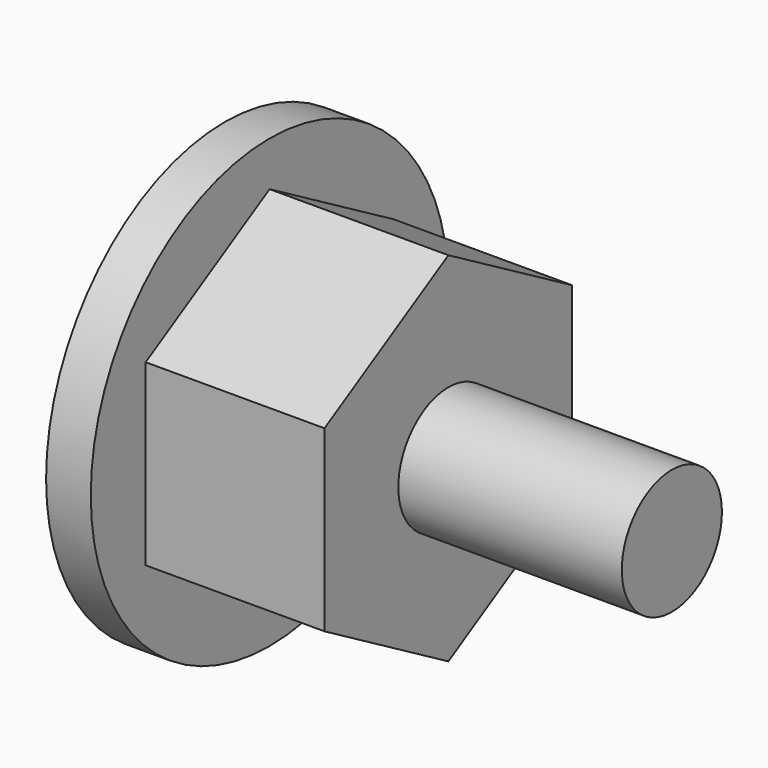
from build123d import *

# Parameters (mm, degrees)
F0_R     = 7
F1_DEPTH = 50
F2_DEPTH = 25
F0_R_2   = 25
F3_DEPTH = 5


with BuildPart() as f1:
    # F0 (on Right) → F1 (new body)
    with BuildSketch(Plane.YZ):
        with Locations((246.234893, -520.379218)):
            Circle(F0_R)
    extrude(amount=F1_DEPTH)

    # F0 (on Right) → F2 (join)
    with BuildSketch(Plane.YZ):
        Polygon((246.234893, -500.379218), (228.914385, -510.379218), (228.914385, -530.379218), (246.234893, -540.379218), (263.555401, -530.379218), (263.555401, -510.379218), align=None)
        with Locations((246.234893, -520.379218)):
            Circle(F0_R, mode=Mode.SUBTRACT)
    extrude(amount=F2_DEPTH)


with BuildPart() as f3:
    # F0 (on Right) → F3 (new body)
    with BuildSketch(Plane.YZ):
        with Locations((246.234893, -520.379218)):
            Circle(F0_R_2)
        Polygon((228.914385, -530.379218), (228.914385, -510.379218), (246.234893, -500.379218), (263.555401, -510.379218), (263.555401, -530.379218), (246.234893, -540.379218), align=None, mode=Mode.SUBTRACT)
    extrude(amount=F3_DEPTH)


solid = Compound([f1.part, f3.part])
